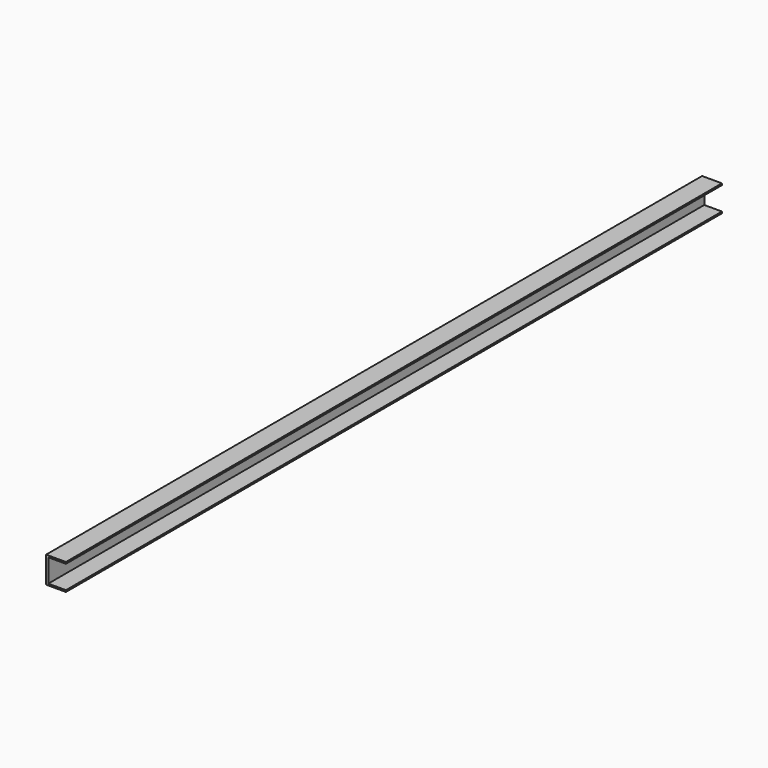
from build123d import *

# Parameters (mm, degrees)
F0_W     = 50.8
F0_H     = 4.7625
F1_DEPTH = 1181.1


with BuildPart() as f1:
    # F0 (on Front) → F1 (new body, symmetric)
    with BuildSketch(Plane.XZ):
        with Locations((31.75, 73.81875)):
            Rectangle(F0_W, F0_H)
        Polygon((0, 76.2), (0, 0), (6.35, 0), (6.35, 4.7625), (6.35, 71.4375), (6.35, 76.2), align=None)
        with Locations((31.75, 2.38125)):
            Rectangle(F0_W, F0_H)
    extrude(amount=F1_DEPTH, both=True)


solid = f1.part
